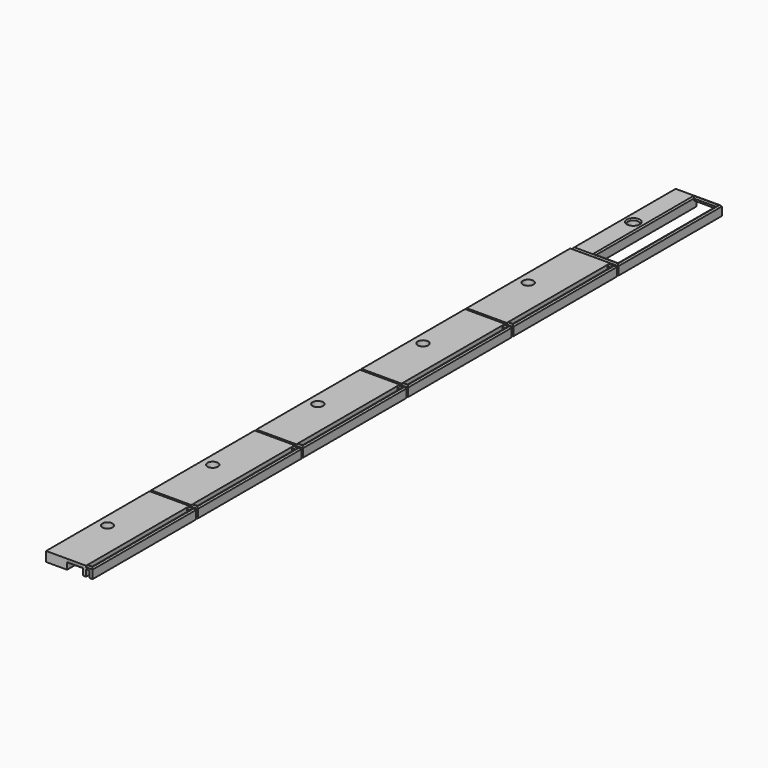
from build123d import *

# Parameters (mm, degrees)
PAD_DEPTH        = 49.2
SKETCH001_W      = 0.8
SKETCH001_H      = 0.8
PAD001_DEPTH     = 0.8
SKETCH002_W      = 8.5
SKETCH002_H      = 46.8
POCKET_DEPTH     = 5
SKETCH003_R      = 2
POCKET001_DEPTH  = 5
CHAMFER_SIZE     = 0.5
ARRAY_Y_COUNT    = 6
ARRAY_Y_PITCH    = 50
PAD003_DEPTH     = 49.2
SKETCH007_W      = 0.8
SKETCH007_H      = 0.8
PAD004_DEPTH     = 0.8
SKETCH009_R      = 2
POCKET004_DEPTH  = 5
ARRAY001_Y_COUNT = 5
ARRAY001_Y_PITCH = 50


with BuildPart() as obj1:
    # Sketch → Pad (new body)
    with BuildSketch(Plane.XZ):
        Polygon((0, 3.7), (17.7, 3.7), (17.7, 0), (16.5, 0), (16.5, 2.5), (8, 2.5), (8, 0), (0, 0), align=None)
    extrude(amount=PAD_DEPTH)

    # Sketch001 → Pad001 (join)
    with BuildSketch(Plane(origin=(0, 0, 0), x_dir=(-1, 0, 0), z_dir=(0, 1, 0))):
        with Locations((-0.8, 2.1)):
            Rectangle(SKETCH001_W, SKETCH001_H)
        with Locations((-6.4, 2.1)):
            Rectangle(SKETCH001_W, SKETCH001_H)
        with Locations((-0.8, 0.4)):
            Rectangle(SKETCH001_W, SKETCH001_H)
        with Locations((-6.4, 0.4)):
            Rectangle(SKETCH001_W, SKETCH001_H)
    extrude(amount=PAD001_DEPTH)

    # Sketch002 → Pocket (cut)
    with BuildSketch(Plane.XY):
        with Locations((12.25, -24.6)):
            Rectangle(SKETCH002_W, SKETCH002_H)
    extrude(amount=POCKET_DEPTH, mode=Mode.SUBTRACT)

    # Sketch003 → Pocket001 (cut)
    with BuildSketch(Plane.XY):
        with Locations((4, -25)):
            Circle(SKETCH003_R)
    extrude(amount=POCKET001_DEPTH, mode=Mode.SUBTRACT)

    # Chamfer
    chamfer_edges = [obj1.edges().sort_by_distance(p)[0] for p in [
        (0, -24.6, 3.7),
        (8.85, 0, 3.7),
        (8.85, -49.2, 3.7),
        (17.7, -24.6, 3.7),
        (2, -25, 3.7),
        (12.25, -48, 3.7),
        (16.5, -24.6, 3.7),
        (8, -24.6, 3.7),
        (12.25, -1.2, 3.7),
    ]]
    chamfer(chamfer_edges, length=CHAMFER_SIZE)

    # Array Y: obj1 ×6


with BuildPart() as obj1_1:
    add(obj1.part)
    with Locations(*[(0, i * ARRAY_Y_PITCH, 0) for i in range(1, ARRAY_Y_COUNT)]):
        add(obj1.part)


with BuildPart() as obj2:
    # Sketch006 → Pad003 (new body)
    with BuildSketch(Plane.XZ):
        Polygon((0, 3.7), (15.2, 3.7), (15.2, 0), (14, 0), (14, 3), (8, 3), (8, 0), (0, 0), align=None)
    extrude(amount=PAD003_DEPTH)

    # Sketch007 → Pad004 (join)
    with BuildSketch(Plane(origin=(0, 0, 0), x_dir=(-1, 0, 0), z_dir=(0, 1, 0))):
        with Locations((-0.8, 2.1)):
            Rectangle(SKETCH007_W, SKETCH007_H)
        with Locations((-6.4, 2.1)):
            Rectangle(SKETCH007_W, SKETCH007_H)
        with Locations((-0.8, 0.4)):
            Rectangle(SKETCH007_W, SKETCH007_H)
        with Locations((-6.4, 0.4)):
            Rectangle(SKETCH007_W, SKETCH007_H)
    extrude(amount=PAD004_DEPTH)

    # Sketch009 → Pocket004 (cut)
    with BuildSketch(Plane.XY):
        with Locations((4, -25)):
            Circle(SKETCH009_R)
    extrude(amount=POCKET004_DEPTH, mode=Mode.SUBTRACT)

    # Array001 Y: obj2 ×5


with BuildPart() as obj2_1:
    add(obj2.part)
    with Locations(*[(0, i * ARRAY001_Y_PITCH, 0) for i in range(1, ARRAY001_Y_COUNT)]):
        add(obj2.part)


solid = Compound([obj1_1.part, obj2_1.part])
